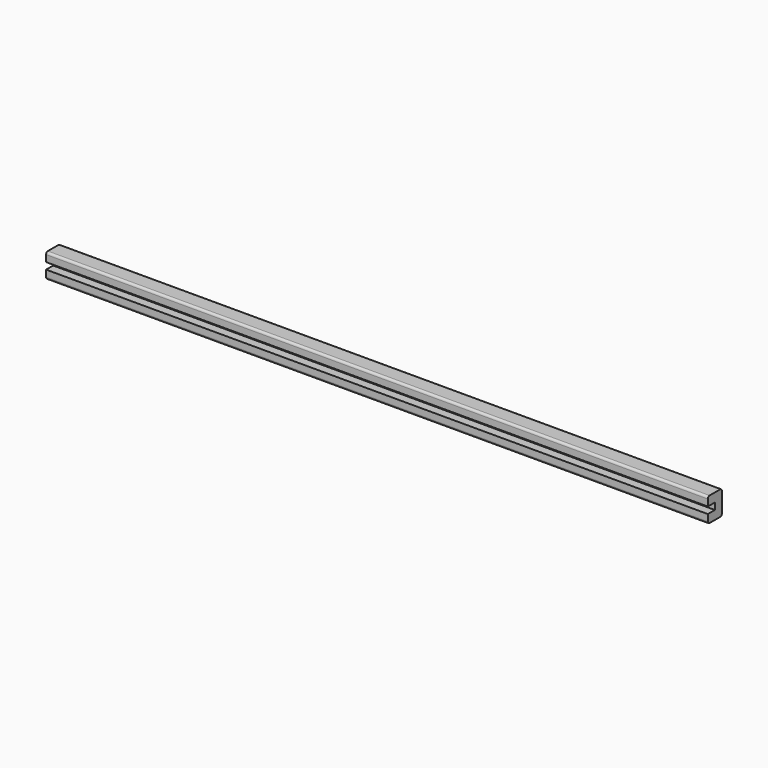
from build123d import *

# Parameters (mm, degrees)
F0_W     = 90
F0_H     = 3.3
F1_DEPTH = 2.4
F2_T     = -1.2
F3_R     = 0.3


with BuildPart() as f1:
    # F0 (on Front) → F1 (new body)
    with BuildSketch(Plane.XZ):
        with Locations((45, 1.65)):
            Rectangle(F0_W, F0_H)
    extrude(amount=F1_DEPTH)

    # F2
    f2_openings = [f1.faces().sort_by_distance(p)[0] for p in [
        (45, -2.4, 1.65),
        (90, -1.2, 1.65),
        (0, -1.2, 1.65),
    ]]
    offset(amount=F2_T, openings=f2_openings)

    # F3
    f3_edges = [f1.edges().sort_by_distance(p)[0] for p in [
        (45, -2.4, 3.3),
        (45, 0, 3.3),
        (45, -2.4, 0),
        (45, 0, 0),
    ]]
    fillet(f3_edges, radius=F3_R)


solid = f1.part
